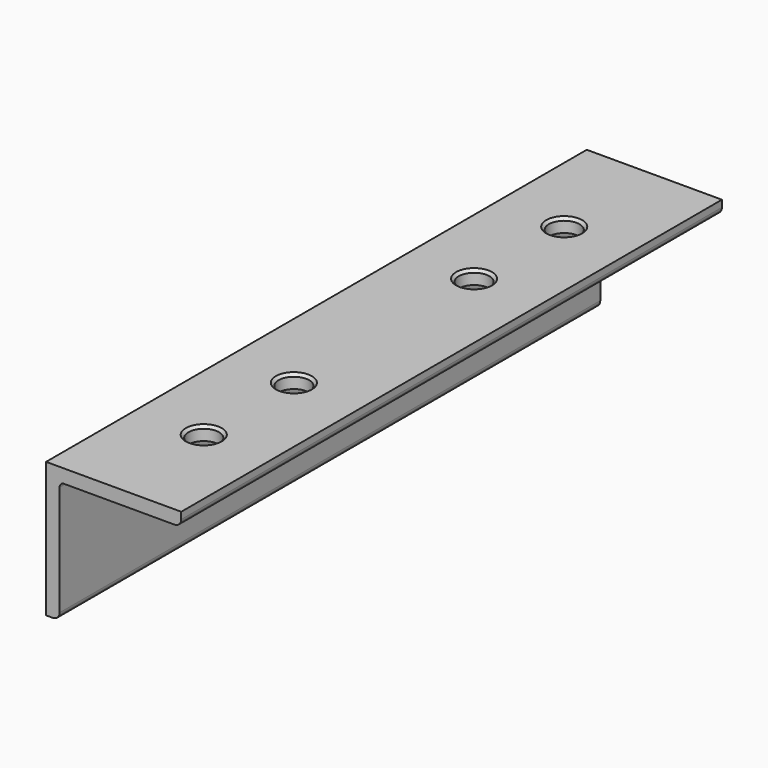
from build123d import *

# Parameters (mm, degrees)
F4_D           = 6.8
F4_DEPTH       = 5
F4_CSINK_D     = 8
F4_CSINK_ANGLE = 90


with BuildPart() as f2:
    # F2: sweep along a path in F1
    with BuildLine(Plane.YZ) as f2_path:
        Line((0, 0), (-150, 0))
    # F0 (on Front) → F2 (sweep)
    with BuildSketch(Plane.XZ):
        with BuildLine():
            Line((30, 0), (0, 0))
            Line((0, 0), (0, -30))
            Line((0, -30), (1.5, -30))
            ThreePointArc((1.5, -30), (2.56066, -29.56066), (3, -28.5))
            Line((3, -28.5), (3, -4))
            ThreePointArc((3, -4), (3.292893, -3.292893), (4, -3))
            Line((4, -3), (28.5, -3))
            ThreePointArc((28.5, -3), (29.56066, -2.56066), (30, -1.5))
            Line((30, -1.5), (30, 0))
        make_face()
    sweep(path=f2_path.line)

    # F4
    with Locations(Plane.XY):
        with Locations((15, -125), (15, -25), (15, -100), (15, -50)):
            CounterSinkHole(F4_D / 2, F4_CSINK_D / 2, depth=F4_DEPTH, counter_sink_angle=F4_CSINK_ANGLE)


solid = f2.part
